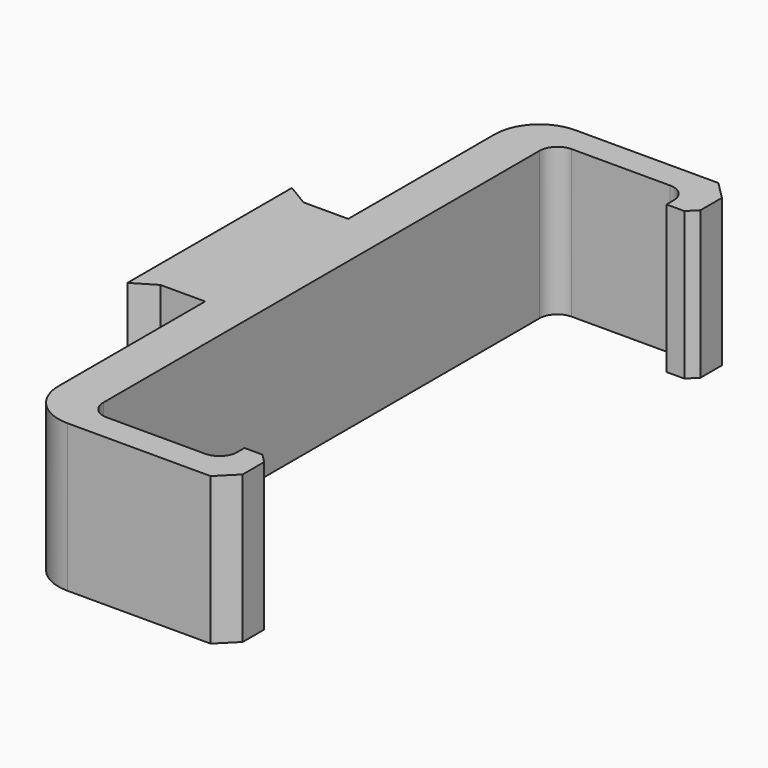
from build123d import *

# Parameters (mm, degrees)
F1_DEPTH = 16.5
F2_R     = 5
F3_R     = 2
F4_SIZE  = 1
F5_SIZE  = 2
F7_DEPTH = 16.5


with BuildPart() as f1:
    # F0 (on Top) → F1 (new body)
    with BuildSketch(Plane.XY):
        Polygon((23, 35.5), (0, 35.5), (0, 10), (-5, 10), (-5, -10), (0, -10), (0, -35.5), (23, -35.5), (23, -29.5), (20, -29.5), (20, -32.5), (5, -32.5), (5, 32.5), (20, 32.5), (20, 29.5), (23, 29.5), align=None)
    extrude(amount=F1_DEPTH)

    # F2
    f2_edges = [f1.edges().sort_by_distance(p)[0] for p in [
        (0, -35.5, 8.25),
        (0, 35.5, 8.25),
    ]]
    fillet(f2_edges, radius=F2_R)

    # F3
    f3_edges = [f1.edges().sort_by_distance(p)[0] for p in [
        (5, 32.5, 8.25),
        (5, -32.5, 8.25),
        (20, 32.5, 8.25),
        (20, -32.5, 8.25),
    ]]
    fillet(f3_edges, radius=F3_R)

    # F4
    f4_edges = [f1.edges().sort_by_distance(p)[0] for p in [
        (23, 29.5, 8.25),
        (23, -29.5, 8.25),
    ]]
    chamfer(f4_edges, length=F4_SIZE)

    # F5
    f5_edges = [f1.edges().sort_by_distance(p)[0] for p in [
        (23, 35.5, 8.25),
        (23, -35.5, 8.25),
    ]]
    chamfer(f5_edges, length=F5_SIZE)

    # F6 (on Top) → F7 (join)
    with BuildSketch(Plane.XY):
        Polygon((-5, 10), (-7.5, 11.5), (-7.5, -11.5), (-5, -10), align=None)
    extrude(amount=F7_DEPTH)


solid = f1.part
